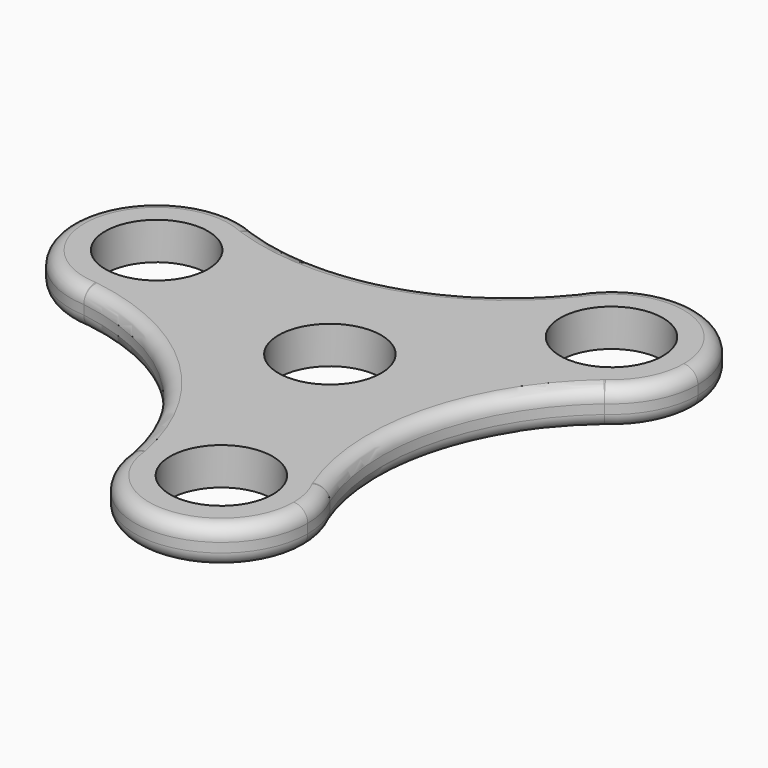
from build123d import *

# Parameters (mm, degrees)
F0_R     = 11
F1_DEPTH = 8
F2_R     = 3


with BuildPart() as f1:
    # F0 (on Top) → F1 (new body)
    with BuildSketch(Plane.XY):
        with BuildLine():
            ThreePointArc((-46.9629723988, -7.1482733789), (-33.3588141853, -2.0414398613), (-27.6480459467, 11.3204460609))
            ThreePointArc((-27.6480459467, 11.3204460609), (-30.5426885779, 21.2526685211), (-38.32015897, 28.0746149634))
            ThreePointArc((-38.32015897, 28.0746149634), (-64.0899437078, 15.7260648458), (-46.9629723988, -7.1482733789))
        make_face()
        with Locations((-46.1353019911, 11.3204460609)):
            Circle(F0_R, mode=Mode.SUBTRACT)
        with BuildLine():
            ThreePointArc((-38.32015897, 28.0746149634), (-30.5426885779, 21.2526685211), (-27.6480459467, 11.3204460609))
            ThreePointArc((-27.6480459467, 11.3204460609), (-33.3588141853, -2.0414398613), (-46.9629723988, -7.1482733789))
            ThreePointArc((-46.9629723988, -7.1482733789), (-19.665142242, -20.516249302), (-5.1532502747, -47.2235386268))
            ThreePointArc((-5.1532502747, -47.2235386268), (8.1019140534, -27.8625813311), (29.6720725387, -37.0969904451))
            ThreePointArc((29.6720725387, -37.0969904451), (27.6001642069, -6.7723880996), (43.4734092447, 19.1489236634))
            ThreePointArc((43.4734092447, 19.1489236634), (20.0787462211, 20.947754055), (17.29089986, 44.245263824))
            ThreePointArc((17.29089986, 44.245263824), (-7.9350219649, 27.2886374016), (-38.32015897, 28.0746149634))
        make_face()
        Circle(F0_R, mode=Mode.SUBTRACT)
        with BuildLine():
            ThreePointArc((51.3587009109, 34.2941205051), (38.0549336147, 52.0398264772), (17.29089986, 44.245263824))
            ThreePointArc((17.29089986, 44.245263824), (20.0787462211, 20.947754055), (43.4734092447, 19.1489236634))
            ThreePointArc((43.4734092447, 19.1489236634), (49.2693085396, 25.756632408), (51.3587009109, 34.2941205051))
        make_face()
        with Locations((32.8714448665, 34.2941205051)):
            Circle(F0_R, mode=Mode.SUBTRACT)
        with BuildLine():
            ThreePointArc((29.6720725387, -37.0969904451), (8.1019140534, -27.8625813311), (-5.1532502747, -47.2235386268))
            ThreePointArc((-5.1532502747, -47.2235386268), (14.0691073846, -64.0842771233), (31.751113169, -45.614566566))
            ThreePointArc((31.751113169, -45.614566566), (31.2238336787, -41.2307465162), (29.6720725387, -37.0969904451))
        make_face()
        with Locations((13.2638571246, -45.614566566)):
            Circle(F0_R, mode=Mode.SUBTRACT)
    extrude(amount=F1_DEPTH)

    # F2 (call 1 of 2: OpenCascade refuses the feature's edges together)
    f2_edges = [f1.edges().sort_by_distance(p)[0] for p in [
        (-7.935022, 27.288637, 0),
        (45.664144, 47.640487, 0),
        (27.600164, -6.772388, 0),
        (18.4258, -63.366552, 0),
        (-19.665142, -20.516249, 0),
        (-64.089944, 15.726065, 0),
    ]]
    fillet(f2_edges, radius=F2_R)

    # F2#2 (call 2 of 2)
    f2_2_edges = [f1.edges().sort_by_distance(p)[0] for p in [
        (45.664144, 47.640487, 8),
        (27.600164, -6.772388, 8),
        (18.4258, -63.366552, 8),
        (-19.665142, -20.516249, 8),
        (-64.089944, 15.726065, 8),
        (-7.935022, 27.288637, 8),
    ]]
    fillet(f2_2_edges, radius=F2_R)


solid = f1.part
